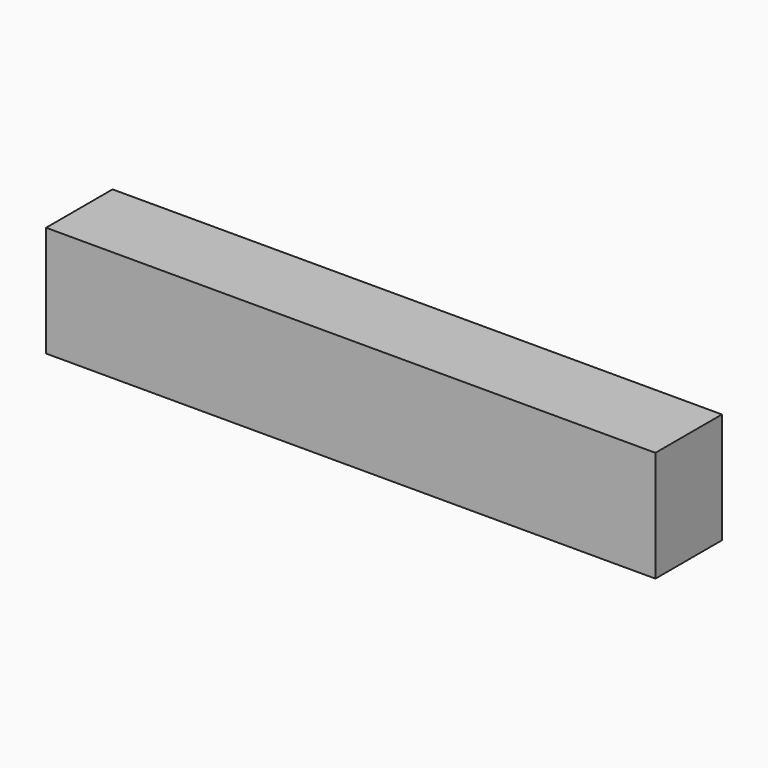
from build123d import *

# Parameters (mm, degrees)
F0_W     = 139.7
F0_H     = 25.4
F1_DEPTH = 19.05
F3_D     = 3.175
F3_DEPTH = 12.7
F3_TIP   = 0.9538662327


with BuildPart() as f1:
    # F0 (on Front) → F1 (new body)
    with BuildSketch(Plane.XZ):
        with Locations((5.3298424567, 28.8898755878)):
            Rectangle(F0_W, F0_H)
    extrude(amount=F1_DEPTH)

    # F3
    with Locations(Plane(origin=(0, 0, 16.1898755878), x_dir=(1, 0, 0), z_dir=(0, 0, -1))):
        with Locations((-7.3701575433, 9.525), (18.0298424567, 9.525)):
            Hole(F3_D / 2, depth=F3_DEPTH)
            with Locations((0, 0, -(F3_DEPTH + F3_TIP / 2))):  # 118° drill point
                Cone(0, F3_D / 2, F3_TIP, mode=Mode.SUBTRACT)


solid = f1.part
